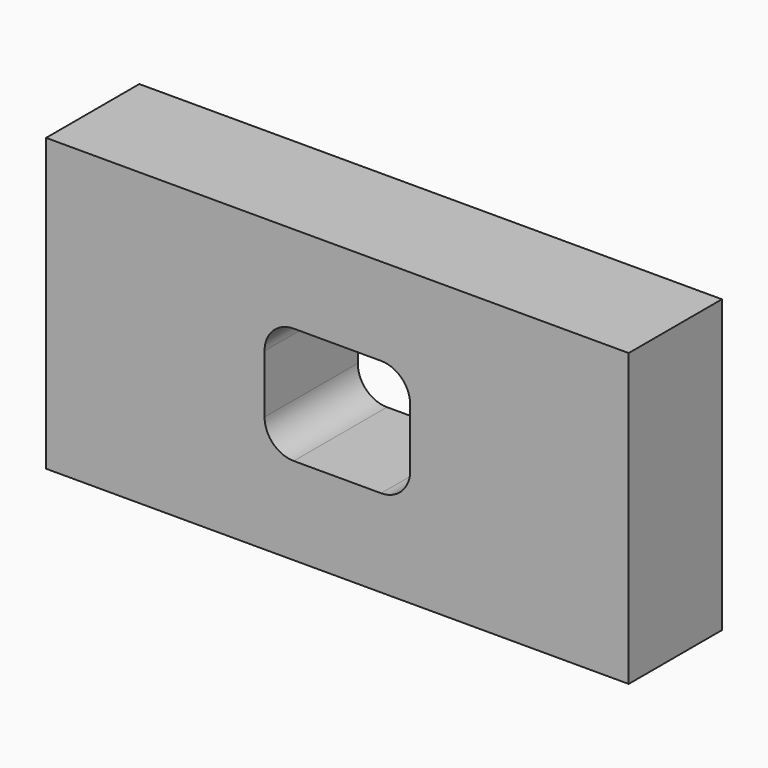
from build123d import *

# Parameters (mm, degrees)
F0_W     = 100
F0_H     = 50
F1_DEPTH = 10
F3_D     = 6.8
F3_DEPTH = 15.75
F3_TIP   = 2.0429261047


with BuildPart() as f1:
    # F0 (on Front) → F1 (new body, symmetric)
    with BuildSketch(Plane.XZ):
        with Locations((0, 25)):
            Rectangle(F0_W, F0_H)
        with BuildLine():
            ThreePointArc((12.5, 20), (11.0355339059, 16.4644660941), (7.5, 15))
            Line((7.5, 15), (-7.5, 15))
            ThreePointArc((-7.5, 15), (-11.0355339059, 16.4644660941), (-12.5, 20))
            Line((-12.5, 20), (-12.5, 30))
            ThreePointArc((-12.5, 30), (-11.0355339059, 33.5355339059), (-7.5, 35))
            Line((-7.5, 35), (7.5, 35))
            ThreePointArc((7.5, 35), (11.0355339059, 33.5355339059), (12.5, 30))
            Line((12.5, 30), (12.5, 20))
        make_face(mode=Mode.SUBTRACT)
    extrude(amount=F1_DEPTH, both=True)

    # F3
    with Locations(Plane(origin=(0, 0, 0), x_dir=(1, 0, 0), z_dir=(0, 0, -1))):
        with Locations((-37.5, 0), (37.5, 0)):
            Hole(F3_D / 2, depth=F3_DEPTH)
            with Locations((0, 0, -(F3_DEPTH + F3_TIP / 2))):  # 118° drill point
                Cone(0, F3_D / 2, F3_TIP, mode=Mode.SUBTRACT)


solid = f1.part
